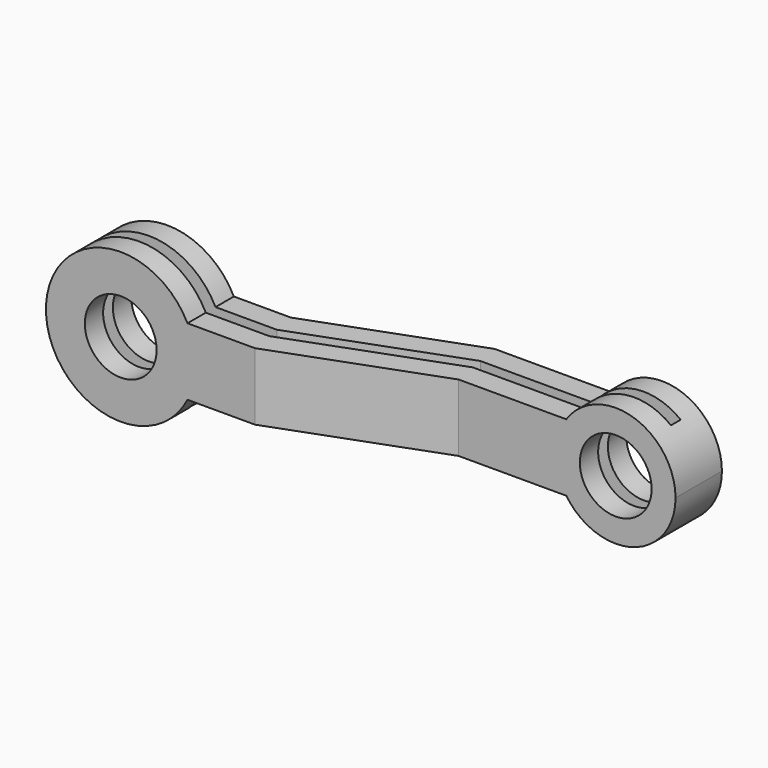
from build123d import *

# Parameters (mm, degrees)
F0_R     = 15.24
F1_DEPTH = 63.5
F3_DEPTH = 31.75


with BuildPart() as f1:
    # F0 (on Front) → F1 (new body)
    with BuildSketch(Plane.XZ):
        with BuildLine():
            ThreePointArc((-20.999009, -14.289913), (7.476134, -24.274831), (25.4, 0))
            ThreePointArc((25.4, 0), (7.476134, 24.274831), (-20.999009, 14.289913))
            ThreePointArc((-20.999009, 14.289913), (-25.4, 0), (-20.999009, -14.289913))
        make_face()
        Circle(F0_R, mode=Mode.SUBTRACT)
        with BuildLine():
            ThreePointArc((-20.999009, -14.289913), (-25.4, 0), (-20.999009, 14.289913))
            Line((-20.999009, 14.289913), (-162.14756, 14.289913))
            ThreePointArc((-162.14756, 14.289913), (-159.611066, 7.344131), (-158.75, 0))
            ThreePointArc((-158.75, 0), (-159.611066, -7.344131), (-162.14756, -14.289913))
            Line((-162.14756, -14.289913), (-20.999009, -14.289913))
        make_face()
        with BuildLine():
            ThreePointArc((-158.75, 0), (-159.611066, 7.344131), (-162.14756, 14.289913))
            ThreePointArc((-162.14756, 14.289913), (-222.25, 0), (-162.14756, -14.289913))
            ThreePointArc((-162.14756, -14.289913), (-159.611066, -7.344131), (-158.75, 0))
        make_face()
        with Locations((-190.5, 0)):
            Circle(F0_R, mode=Mode.SUBTRACT)
    extrude(amount=F1_DEPTH)

    # F2 (on Top) → F3 (intersect, symmetric)
    with BuildSketch(Plane.XY):
        Polygon((-137.883782, -24.62209), (-222.25, -24.62209), (-222.25, -49.244195), (-133.487584, -49.244195), (-66.734323, -24.622105), (25.4, -24.622105), (25.4, 0), (-71.130522, 0), align=None)
        Polygon((-135.22534, -39.511423), (-212.517228, -39.511423), (-212.517228, -34.354862), (-136.146027, -34.354862), (-69.392766, -9.732772), (15.667228, -9.732772), (15.667228, -14.889333), (-68.472079, -14.889333), align=None, mode=Mode.SUBTRACT)
    extrude(amount=F3_DEPTH, both=True, mode=Mode.INTERSECT)


solid = f1.part
